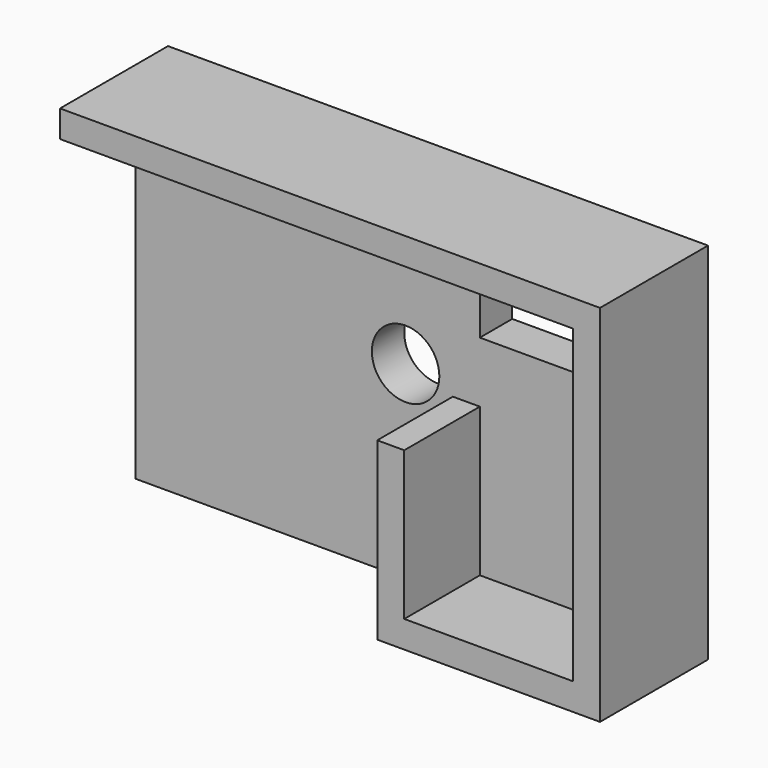
from build123d import *

# Parameters (mm, degrees)
F1_DEPTH = 10
F0_R     = 2.5
F2_DEPTH = 3


with BuildPart() as f1:
    # F0 (on Front) → F1 (new body)
    with BuildSketch(Plane.XZ):
        Polygon((13.648517, -4.5), (13.648517, -17.5), (30.148517, -17.5), (30.148517, 9.5), (-9.851483, 9.5), (-9.851483, 7.5), (28.148517, 7.5), (28.148517, 3.5), (28.148517, 0), (28.148517, -15.5), (15.648517, -15.5), (15.648517, -4.5), align=None)
    extrude(amount=F1_DEPTH)

    # F0 (on Front) → F2 (join)
    with BuildSketch(Plane.XZ):
        Polygon((-9.851483, 7.5), (-9.851483, -17.5), (13.648517, -17.5), (13.648517, -4.5), (15.648517, -4.5), (15.648517, -15.5), (28.148517, -15.5), (28.148517, 0), (15.648517, 0), (15.648517, 3.5), (28.148517, 3.5), (28.148517, 7.5), align=None)
        with Locations((10.148517, -3.5)):
            Circle(F0_R, mode=Mode.SUBTRACT)
    extrude(amount=F2_DEPTH)


solid = f1.part
